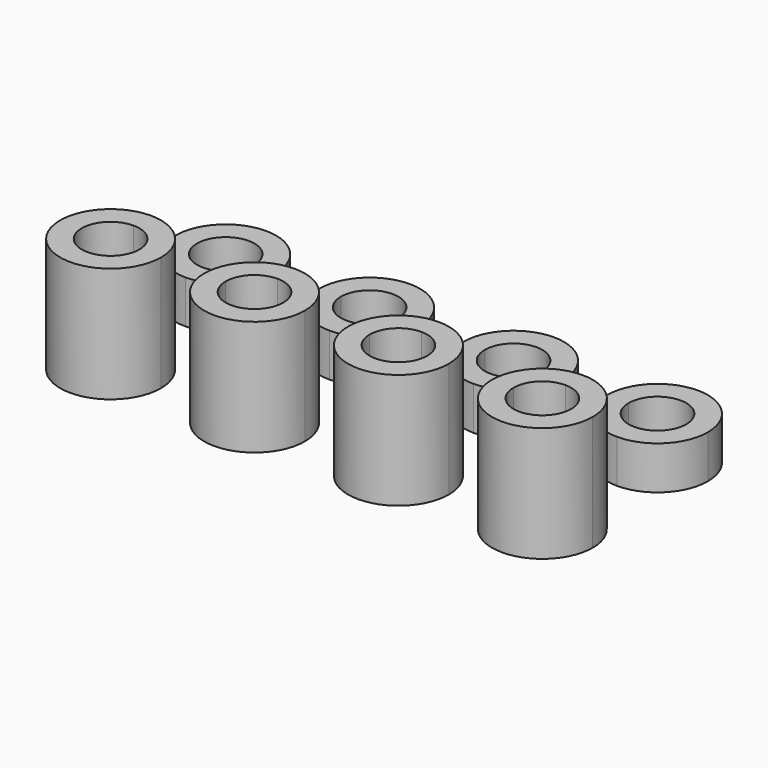
from build123d import *

# Parameters (mm, degrees)
F1_DEPTH = 3
F2_DEPTH = 8


with BuildPart() as f1:
    # F0 (on Top) → F1 (new body)
    with BuildSketch(Plane.XY):
        with BuildLine():
            Line((-13, 5), (-11.5, 5))
            ThreePointArc((-11.5, 5), (-17.4748737342, 7.4748737342), (-15, 1.5))
            Line((-15, 1.5), (-15, 3))
            ThreePointArc((-15, 3), (-16.4142135624, 6.4142135624), (-13, 5))
        make_face()
        with BuildLine():
            ThreePointArc((-15, 1.5), (-12.5251262658, 2.5251262658), (-11.5, 5))
            Line((-11.5, 5), (-13, 5))
            ThreePointArc((-13, 5), (-13.5857864376, 3.5857864376), (-15, 3))
            Line((-15, 3), (-15, 1.5))
        make_face()
    extrude(amount=F1_DEPTH)


with BuildPart() as f1b:
    # F0 (on Top) → F1, piece 2 (new body)
    with BuildSketch(Plane.XY):
        with BuildLine():
            ThreePointArc((-1.5, 5), (-5, 8.5), (-8.5, 5))
            Line((-8.5, 5), (-7, 5))
            ThreePointArc((-7, 5), (-5, 7), (-3, 5))
            Line((-3, 5), (-1.5, 5))
        make_face()
        with BuildLine():
            Line((-5, 3), (-5, 1.5))
            ThreePointArc((-5, 1.5), (-2.5251262658, 2.5251262658), (-1.5, 5))
            Line((-1.5, 5), (-3, 5))
            ThreePointArc((-3, 5), (-3.5857864376, 3.5857864376), (-5, 3))
        make_face()
        with BuildLine():
            ThreePointArc((-8.5, 5), (-7.4748737342, 2.5251262658), (-5, 1.5))
            Line((-5, 1.5), (-5, 3))
            ThreePointArc((-5, 3), (-6.4142135624, 3.5857864376), (-7, 5))
            Line((-7, 5), (-8.5, 5))
        make_face()
    extrude(amount=F1_DEPTH)


with BuildPart() as f1c:
    # F0 (on Top) → F1, piece 3 (new body)
    with BuildSketch(Plane.XY):
        with BuildLine():
            ThreePointArc((1.5, 5), (2.5251262658, 2.5251262658), (5, 1.5))
            Line((5, 1.5), (5, 3))
            ThreePointArc((5, 3), (3.5857864376, 3.5857864376), (3, 5))
            Line((3, 5), (1.5, 5))
        make_face()
        with BuildLine():
            Line((5, 3), (5, 1.5))
            ThreePointArc((5, 1.5), (7.4748737342, 2.5251262658), (8.5, 5))
            Line((8.5, 5), (7, 5))
            ThreePointArc((7, 5), (6.4142135624, 3.5857864376), (5, 3))
        make_face()
        with BuildLine():
            ThreePointArc((8.5, 5), (5, 8.5), (1.5, 5))
            Line((1.5, 5), (3, 5))
            ThreePointArc((3, 5), (5, 7), (7, 5))
            Line((7, 5), (8.5, 5))
        make_face()
    extrude(amount=F1_DEPTH)


with BuildPart() as f1d:
    # F0 (on Top) → F1, piece 4 (new body)
    with BuildSketch(Plane.XY):
        with BuildLine():
            ThreePointArc((18.5, 5), (15, 8.5), (11.5, 5))
            Line((11.5, 5), (13, 5))
            ThreePointArc((13, 5), (15, 7), (17, 5))
            ThreePointArc((17, 5), (16.4142135624, 3.5857864376), (15, 3))
            Line((15, 3), (15, 1.5))
            ThreePointArc((15, 1.5), (17.4748737342, 2.5251262658), (18.5, 5))
        make_face()
        with BuildLine():
            Line((13, 5), (11.5, 5))
            ThreePointArc((11.5, 5), (12.5251262658, 2.5251262658), (15, 1.5))
            Line((15, 1.5), (15, 3))
            ThreePointArc((15, 3), (13.5857864376, 3.5857864376), (13, 5))
        make_face()
    extrude(amount=F1_DEPTH)


with BuildPart() as f2:
    # F0 (on Top) → F2 (new body)
    with BuildSketch(Plane.XY):
        with BuildLine():
            ThreePointArc((-15, -1.5), (-17.4748737342, -7.4748737342), (-11.5, -5))
            Line((-11.5, -5), (-13, -5))
            ThreePointArc((-13, -5), (-16.4142135624, -6.4142135624), (-15, -3))
            Line((-15, -3), (-15, -1.5))
        make_face()
        with BuildLine():
            Line((-13, -5), (-11.5, -5))
            ThreePointArc((-11.5, -5), (-12.5251262658, -2.5251262658), (-15, -1.5))
            Line((-15, -1.5), (-15, -3))
            ThreePointArc((-15, -3), (-13.5857864376, -3.5857864376), (-13, -5))
        make_face()
    extrude(amount=F2_DEPTH)


with BuildPart() as f2b:
    # F0 (on Top) → F2, piece 2 (new body)
    with BuildSketch(Plane.XY):
        with BuildLine():
            ThreePointArc((-7, -5), (-6.4142135624, -3.5857864376), (-5, -3))
            Line((-5, -3), (-5, -1.5))
            ThreePointArc((-5, -1.5), (-7.4748737342, -2.5251262658), (-8.5, -5))
            Line((-8.5, -5), (-7, -5))
        make_face()
        with BuildLine():
            ThreePointArc((-5, -3), (-3.5857864376, -3.5857864376), (-3, -5))
            Line((-3, -5), (-1.5, -5))
            ThreePointArc((-1.5, -5), (-2.5251262658, -2.5251262658), (-5, -1.5))
            Line((-5, -1.5), (-5, -3))
        make_face()
        with BuildLine():
            Line((-1.5, -5), (-3, -5))
            ThreePointArc((-3, -5), (-5, -7), (-7, -5))
            Line((-7, -5), (-8.5, -5))
            ThreePointArc((-8.5, -5), (-5, -8.5), (-1.5, -5))
        make_face()
    extrude(amount=F2_DEPTH)


with BuildPart() as f2c:
    # F0 (on Top) → F2, piece 3 (new body)
    with BuildSketch(Plane.XY):
        with BuildLine():
            ThreePointArc((5, -1.5), (2.5251262658, -2.5251262658), (1.5, -5))
            Line((1.5, -5), (3, -5))
            ThreePointArc((3, -5), (3.5857864376, -3.5857864376), (5, -3))
            Line((5, -3), (5, -1.5))
        make_face()
        with BuildLine():
            Line((3, -5), (1.5, -5))
            ThreePointArc((1.5, -5), (5, -8.5), (8.5, -5))
            Line((8.5, -5), (7, -5))
            ThreePointArc((7, -5), (5, -7), (3, -5))
        make_face()
        with BuildLine():
            ThreePointArc((8.5, -5), (7.4748737342, -2.5251262658), (5, -1.5))
            Line((5, -1.5), (5, -3))
            ThreePointArc((5, -3), (6.4142135624, -3.5857864376), (7, -5))
            Line((7, -5), (8.5, -5))
        make_face()
    extrude(amount=F2_DEPTH)


with BuildPart() as f2d:
    # F0 (on Top) → F2, piece 4 (new body)
    with BuildSketch(Plane.XY):
        with BuildLine():
            ThreePointArc((15, -1.5), (12.5251262658, -2.5251262658), (11.5, -5))
            Line((11.5, -5), (13, -5))
            ThreePointArc((13, -5), (13.5857864376, -3.5857864376), (15, -3))
            Line((15, -3), (15, -1.5))
        make_face()
        with BuildLine():
            Line((13, -5), (11.5, -5))
            ThreePointArc((11.5, -5), (15, -8.5), (18.5, -5))
            ThreePointArc((18.5, -5), (17.4748737342, -2.5251262658), (15, -1.5))
            Line((15, -1.5), (15, -3))
            ThreePointArc((15, -3), (16.4142135624, -3.5857864376), (17, -5))
            ThreePointArc((17, -5), (15, -7), (13, -5))
        make_face()
    extrude(amount=F2_DEPTH)


solid = Compound([f1.part, f1b.part, f1c.part, f1d.part, f2.part, f2b.part, f2c.part, f2d.part])
